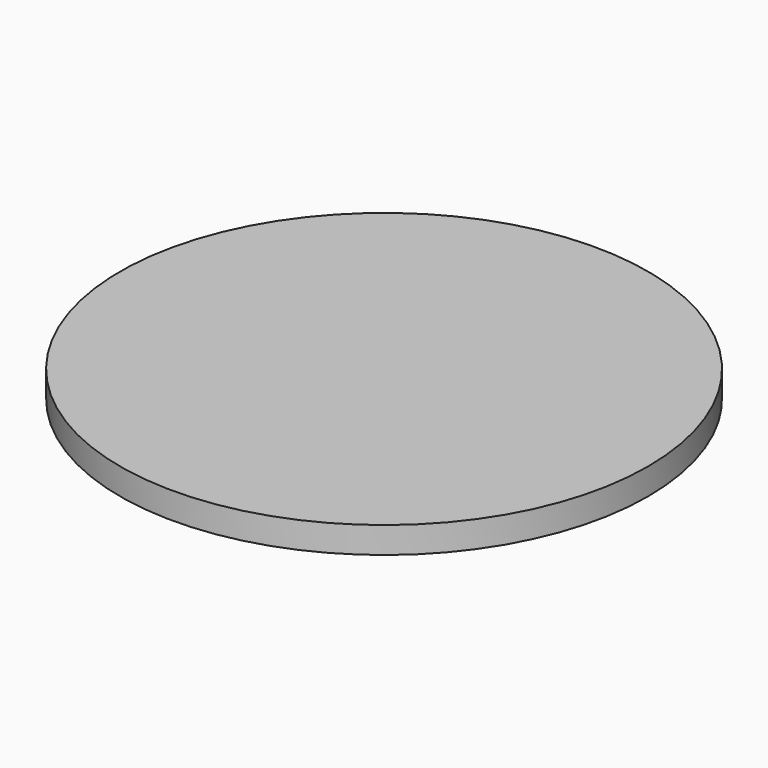
from build123d import *

# Parameters (mm, degrees)
SKETCH_R  = 10
PAD_DEPTH = 1


with BuildPart() as part:
    # Sketch → Pad (new body)
    with BuildSketch(Plane.XY):
        Circle(SKETCH_R)
    extrude(amount=PAD_DEPTH)


solid = part.part
